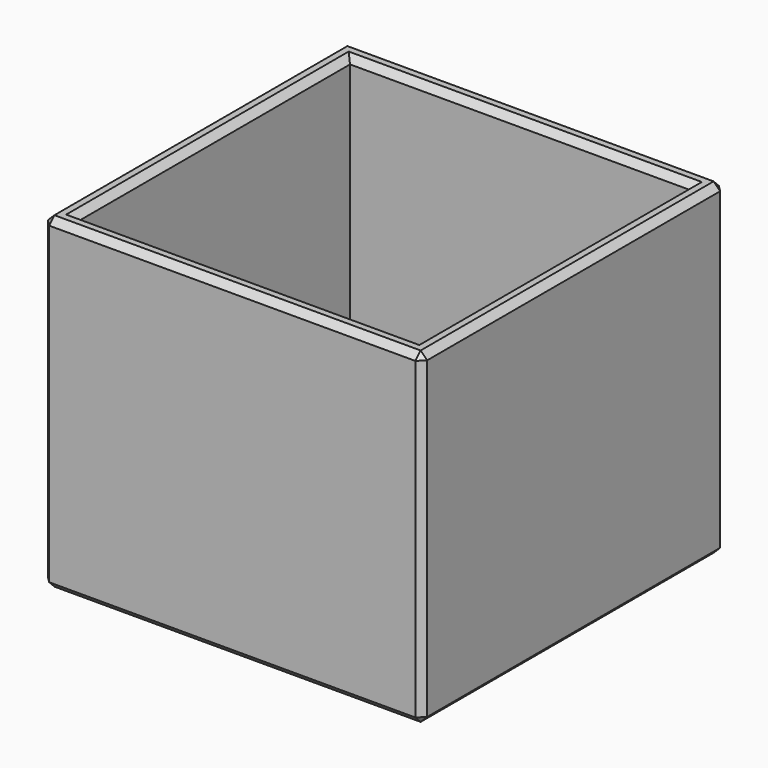
from build123d import *

# Parameters (mm, degrees)
F0_W     = 147.32
F0_H     = 147.32
F0_W_2   = 121.92
F0_H_2   = 121.92
F1_DEPTH = 63.5
F2_W     = 132.08
F2_H     = 132.08
F3_DEPTH = 101.6
F4_SIZE  = 2.54
F5_SIZE  = 5.08


with BuildPart() as f1:
    # F0 (on Top) → F1 (new body, symmetric)
    with BuildSketch(Plane.XY):
        Rectangle(F0_W, F0_H)
        Rectangle(F0_W_2, F0_H_2, mode=Mode.SUBTRACT)
        Rectangle(F0_W_2, F0_H_2)
    extrude(amount=F1_DEPTH, both=True)

    # F2 (on face) → F3 (cut)
    with BuildSketch(Plane.XY.offset(63.5)):
        Rectangle(F2_W, F2_H)
    extrude(amount=-F3_DEPTH, mode=Mode.SUBTRACT)

    # F4
    f4_edges = [f1.edges().sort_by_distance(p)[0] for p in [
        (-73.66, -73.66, 0),
        (-73.66, 0, 63.5),
        (-73.66, 73.66, 0),
        (-73.66, 0, -63.5),
        (0, -73.66, 63.5),
        (73.66, -73.66, 0),
        (0, -73.66, -63.5),
        (66.04, 0, 63.5),
        (0, -66.04, 63.5),
        (73.66, 0, 63.5),
        (73.66, 0, -63.5),
        (73.66, 73.66, 0),
        (0, 73.66, 63.5),
        (0, 73.66, -63.5),
        (-66.04, 0, 63.5),
        (0, 66.04, 63.5),
        (0, -66.04, -38.1),
    ]]
    chamfer(f4_edges, length=F4_SIZE)

    # F5
    f5_edges = [f1.edges().sort_by_distance(p)[0] for p in [
        (66.04, 1.27, -38.1),
        (0, 66.04, -38.1),
        (-66.04, 1.27, -38.1),
    ]]
    chamfer(f5_edges, length=F5_SIZE)


solid = f1.part
